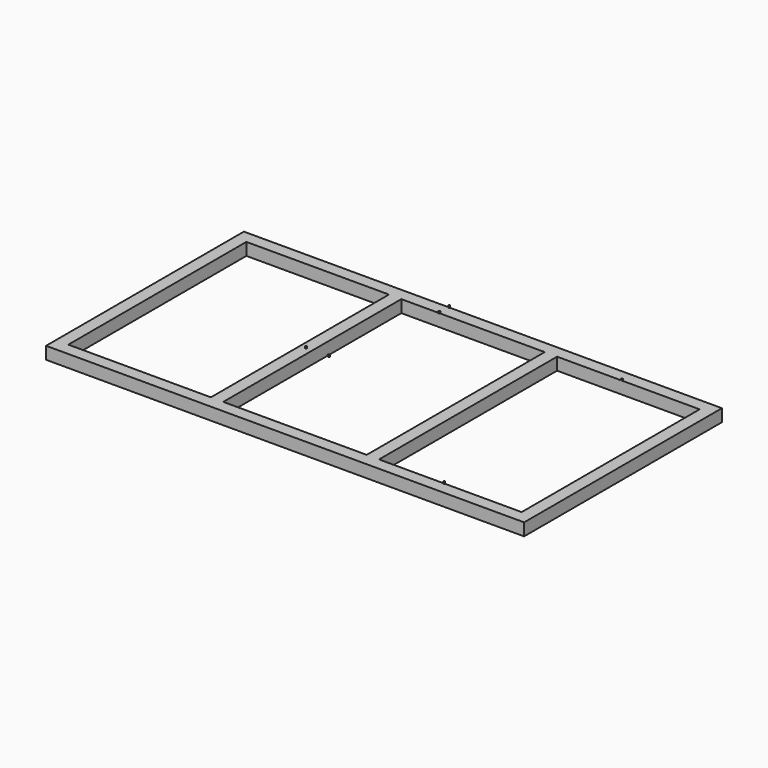
from build123d import *

# Parameters (mm, degrees)
F0_W     = 2900
F0_H     = 1500
F0_W_2   = 75
F0_H_2   = 1350
F1_DEPTH = 75
F3_DEPTH = 10
F2_R     = 5
F4_DEPTH = 10


with BuildPart() as f1:
    # F0 (on Top) → F1 (new body)
    with BuildSketch(Plane.XY):
        Rectangle(F0_W, F0_H)
        Polygon((-510, -675), (-1375, -675), (-1375, 675), (-510, 675), (-435, 675), (435, 675), (510, 675), (1375, 675), (1375, -675), (510, -675), (435, -675), (-435, -675), align=None, mode=Mode.SUBTRACT)
        with Locations((-472.5, 0)):
            Rectangle(F0_W_2, F0_H_2)
        with Locations((472.5, 0)):
            Rectangle(F0_W_2, F0_H_2)
    extrude(amount=F1_DEPTH)

    # F2 (on face) → F3, piece 2 (join)
    with BuildSketch(Plane.XY.offset(75)):
        with Locations((-472.5, 0)):
            Circle(F2_R)
        with BuildLine():
            Line((-205, 680), (-205, 675))
            Line((-205, 675), (-200, 675))
            ThreePointArc((-200, 675), (-201.4644660941, 678.5355339059), (-205, 680))
        make_face()
        with BuildLine():
            Line((-200, 675), (-205, 675))
            Line((-205, 675), (-210, 675))
            ThreePointArc((-210, 675), (-205, 670), (-200, 675))
        make_face()
        with BuildLine():
            Line((-210, 675), (-205, 675))
            Line((-205, 675), (-205, 680))
            ThreePointArc((-205, 680), (-208.5355339059, 678.5355339059), (-210, 675))
        make_face()
        with BuildLine():
            ThreePointArc((910, 675), (905, 680), (900, 675))
            ThreePointArc((900, 675), (905, 670), (910, 675))
        make_face()
        with BuildLine():
            ThreePointArc((-200, 750), (-208.5355339059, 753.5355339059), (-205, 745))
            ThreePointArc((-205, 745), (-201.4644660941, 746.4644660941), (-200, 750))
        make_face()
        with BuildLine():
            ThreePointArc((900, -675), (905, -680), (910, -675))
            ThreePointArc((910, -675), (905, -670), (900, -675))
        make_face()
    extrude(amount=F3_DEPTH)

    # F2 (on face) → F4, piece 2 (join)
    with BuildSketch(Plane.XY.offset(75)):
        with Locations((-472.5, 0)):
            Circle(F2_R)
        with BuildLine():
            Line((-205, 680), (-205, 675))
            Line((-205, 675), (-200, 675))
            ThreePointArc((-200, 675), (-201.4644660941, 678.5355339059), (-205, 680))
        make_face()
        with BuildLine():
            Line((-200, 675), (-205, 675))
            Line((-205, 675), (-210, 675))
            ThreePointArc((-210, 675), (-205, 670), (-200, 675))
        make_face()
        with BuildLine():
            Line((-210, 675), (-205, 675))
            Line((-205, 675), (-205, 680))
            ThreePointArc((-205, 680), (-208.5355339059, 678.5355339059), (-210, 675))
        make_face()
        with BuildLine():
            ThreePointArc((910, 675), (905, 680), (900, 675))
            ThreePointArc((900, 675), (905, 670), (910, 675))
        make_face()
        with BuildLine():
            ThreePointArc((-200, 750), (-208.5355339059, 753.5355339059), (-205, 745))
            ThreePointArc((-205, 745), (-201.4644660941, 746.4644660941), (-200, 750))
        make_face()
        with BuildLine():
            ThreePointArc((900, -675), (905, -680), (910, -675))
            ThreePointArc((910, -675), (905, -670), (900, -675))
        make_face()
    extrude(amount=F4_DEPTH)


with BuildPart() as f3:
    # F2 (on face) → F3 (new body)
    with BuildSketch(Plane.XY.offset(75)):
        with BuildLine():
            ThreePointArc((-330, 0), (-335, 5), (-340, 0))
            ThreePointArc((-340, 0), (-335, -5), (-330, 0))
        make_face()
    extrude(amount=F3_DEPTH)

    # F2 (on face) → F4 (join)
    with BuildSketch(Plane.XY.offset(75)):
        with BuildLine():
            ThreePointArc((-330, 0), (-335, 5), (-340, 0))
            ThreePointArc((-340, 0), (-335, -5), (-330, 0))
        make_face()
    extrude(amount=F4_DEPTH)


solid = Compound([f1.part, f3.part])
